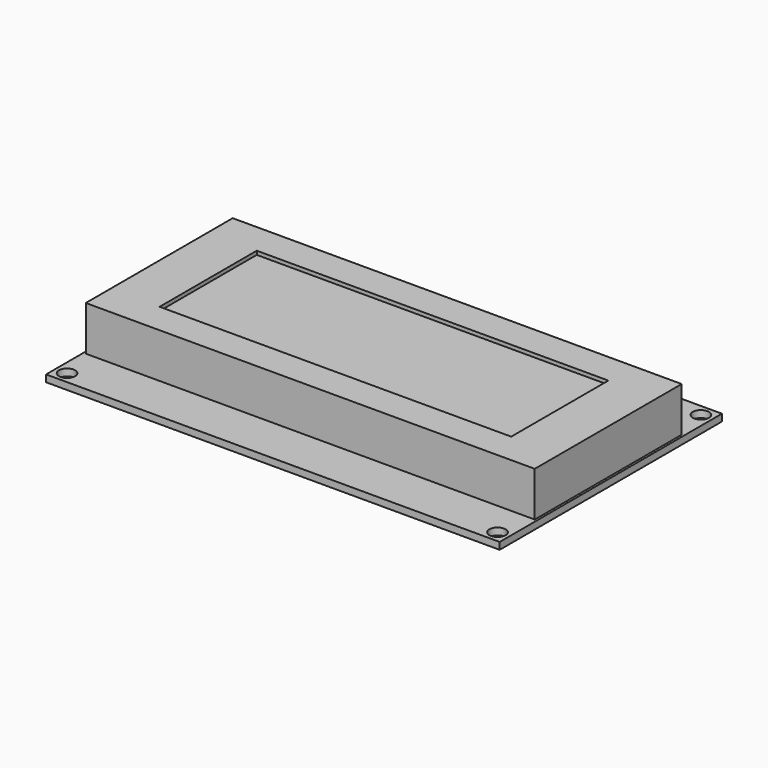
from build123d import *

# Parameters (mm, degrees)
F0_W     = 98.05
F0_H     = 60.05
F0_R     = 1.75
F0_W_2   = 97.05
F0_H_2   = 39.7
F0_W_3   = 90
F0_H_3   = 34
F0_W_4   = 76
F0_H_4   = 26.25
F1_DEPTH = 1.5
F2_DEPTH = 9.65
F3_DEPTH = 8.85


with BuildPart() as f1:
    # F0 (on Top) → F1 (new body)
    with BuildSketch(Plane.XY):
        Rectangle(F0_W, F0_H)
        with Locations((-46.525, -27.475)):
            Circle(F0_R, mode=Mode.SUBTRACT)
        with Locations((46.525, -27.475)):
            Circle(F0_R, mode=Mode.SUBTRACT)
        with Locations((0, -0.075)):
            Rectangle(F0_W_2, F0_H_2, mode=Mode.SUBTRACT)
        with Locations((-46.525, 27.475)):
            Circle(F0_R, mode=Mode.SUBTRACT)
        with Locations((46.525, 27.475)):
            Circle(F0_R, mode=Mode.SUBTRACT)
        with Locations((0, -0.075)):
            Rectangle(F0_W_2, F0_H_2)
        Rectangle(F0_W_3, F0_H_3, mode=Mode.SUBTRACT)
        Rectangle(F0_W_3, F0_H_3)
        with Locations((0.075, -0.1)):
            Rectangle(F0_W_4, F0_H_4, mode=Mode.SUBTRACT)
        with Locations((0.075, -0.1)):
            Rectangle(F0_W_4, F0_H_4)
    extrude(amount=-F1_DEPTH)

    # F0 (on Top) → F2 (join)
    with BuildSketch(Plane.XY):
        with Locations((0, -0.075)):
            Rectangle(F0_W_2, F0_H_2)
        Rectangle(F0_W_3, F0_H_3, mode=Mode.SUBTRACT)
        Rectangle(F0_W_3, F0_H_3)
        with Locations((0.075, -0.1)):
            Rectangle(F0_W_4, F0_H_4, mode=Mode.SUBTRACT)
    extrude(amount=F2_DEPTH)

    # F0 (on Top) → F3 (join)
    with BuildSketch(Plane.XY):
        with Locations((0.075, -0.1)):
            Rectangle(F0_W_4, F0_H_4)
    extrude(amount=F3_DEPTH)


solid = f1.part
